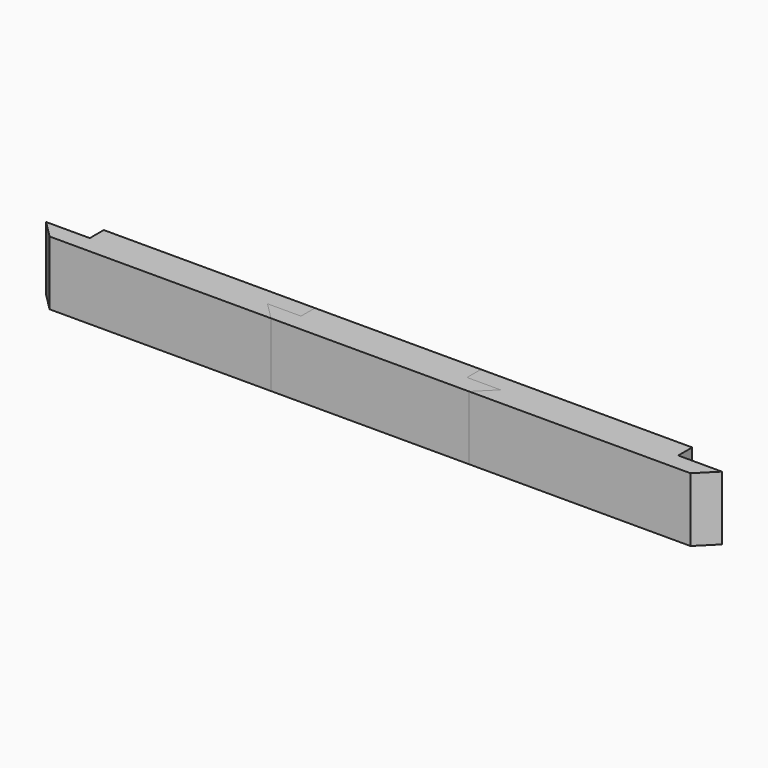
from build123d import *

# Parameters (mm, degrees)
F1_DEPTH = 139.7
F3_DEPTH = 139.7


with BuildPart() as f1:
    # F0 (on Top) → F1 (new body)
    with BuildSketch(Plane.XY):
        Polygon((-736.6, 0), (-698.5, -38.1), (698.5, -38.1), (736.6, 0), (641.35, 0), (641.35, 38.1), (-641.35, 38.1), (-641.35, 0), align=None)
    extrude(amount=F1_DEPTH)


with BuildPart() as f3:
    # F2 (on Top) → F3 (new body)
    with BuildSketch(Plane.XY):
        Polygon((-254, 0), (-215.9, -38.1), (215.9, -38.1), (254, 0), (180.975, 0), (180.975, 38.1), (-180.975, 38.1), (-180.975, 0), align=None)
    extrude(amount=F3_DEPTH)


solid = Compound([f1.part, f3.part])
